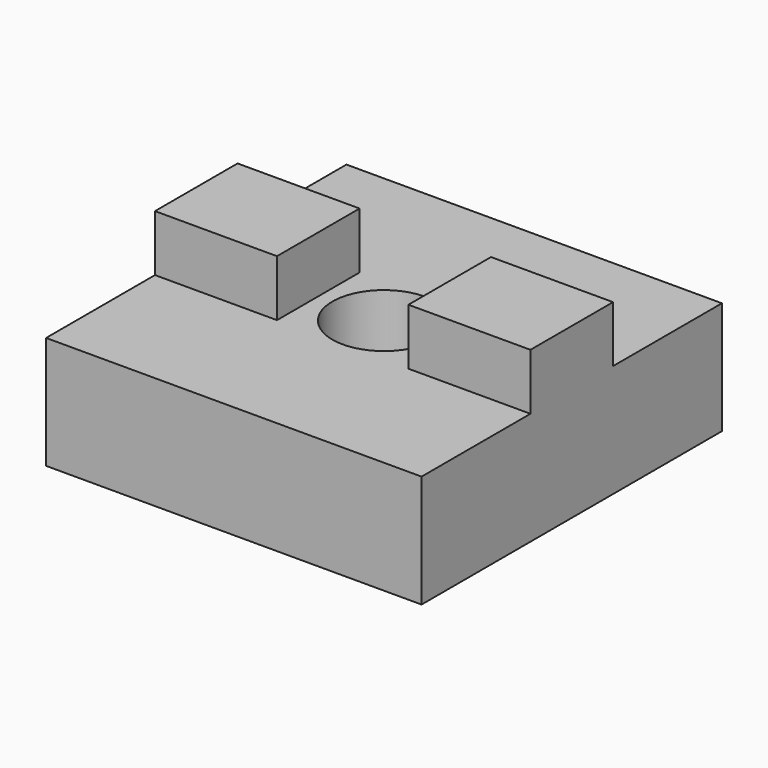
from build123d import *

# Parameters (mm, degrees)
F0_W     = 20
F0_H     = 20
F1_DEPTH = 6
F2_W     = 6.5
F2_H     = 5.5
F3_DEPTH = 3
F4_R     = 2.75
F5_DEPTH = 9.001


with BuildPart() as f1:
    # F0 (on Top) → F1 (new body)
    with BuildSketch(Plane.XY):
        Rectangle(F0_W, F0_H)
    extrude(amount=F1_DEPTH)

    # F2 (on face) → F3 (join)
    with BuildSketch(Plane.XY.offset(6)):
        with Locations((6.75, 0)):
            Rectangle(F2_W, F2_H)
        with Locations((-6.75, 0)):
            Rectangle(F2_W, F2_H)
    extrude(amount=F3_DEPTH)

    # F4 (on face) → F5 (cut, through all)
    with BuildSketch(Plane(origin=(0, 0, 0), x_dir=(1, 0, 0), z_dir=(0, 0, -1))):
        Circle(F4_R)
    extrude(amount=-F5_DEPTH, mode=Mode.SUBTRACT)


solid = f1.part
